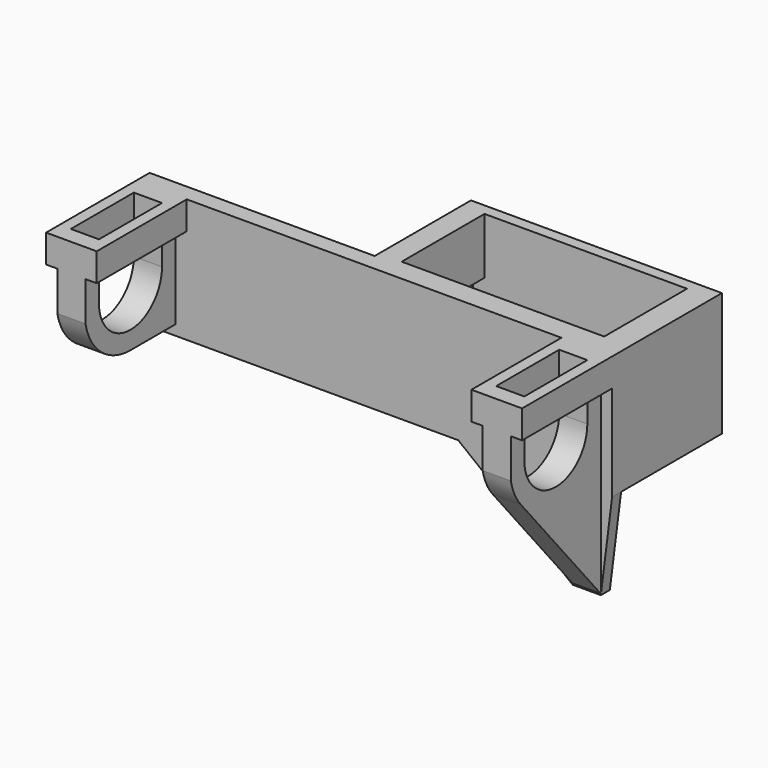
from build123d import *

# Parameters (mm, degrees)
SKETCH014_W   = 40.6
SKETCH014_H   = 20.4
PAD013_DEPTH  = 22
PAD014_DEPTH  = 2
PAD012_DEPTH  = 5
SKETCH016_W   = 9
SKETCH016_H   = 22
SKETCH016_W_2 = 5
SKETCH016_H_2 = 17
PAD015_DEPTH  = 5
SKETCH017_W   = 44.6
SKETCH017_H   = 24.4
SKETCH017_W_2 = 36
SKETCH017_H_2 = 18.4
PAD016_DEPTH  = 10
PAD017_DEPTH  = 5
SKETCH019_W   = 9
SKETCH019_H   = 23
SKETCH019_W_2 = 5
SKETCH019_H_2 = 17
PAD018_DEPTH  = 5


with BuildPart() as part:
    # Sketch014 → Pad013 (new body)
    with BuildSketch(Plane.XY):
        Polygon((-2, 22.4), (42.6, 22.4), (42.6, -2), (-40, -2), (-40, 1), (-2, 1), align=None)
        with Locations((20.3, 10.2)):
            Rectangle(SKETCH014_W, SKETCH014_H, mode=Mode.SUBTRACT)
    extrude(amount=PAD013_DEPTH)

    # Sketch015 → Pad014 (join)
    with BuildSketch(Plane.XZ):
        Polygon((0, 12), (35.6, -16), (40.6, -16), (42.6, 0), (42.6, 12), align=None)
    extrude(amount=PAD014_DEPTH)

    # Sketch013 → Pad012 (join)
    with BuildSketch(Plane(origin=(40.6, 0, 10), x_dir=(0, 1, 0), z_dir=(1, 0, 0))):
        with BuildLine():
            Line((-22, 12), (-22, 0))
            ThreePointArc((-22, 0), (-21.192692, -2.415248), (-19.812151, -4.555173))
            Line((-19.812151, -4.555173), (-2, -25.782868))
            Line((-2, -25.782868), (-2, 2))
            Line((-2, 12), (-2, 2))
            Line((-5, 12), (-2, 12))
            Line((-5, 2), (-5, 12))
            ThreePointArc((-19, 2), (-12, -5), (-5, 2))
            Line((-19, 12), (-19, 2))
            Line((-22, 12), (-19, 12))
        make_face()
    extrude(amount=-PAD012_DEPTH)

    # Sketch016 → Pad015 (join)
    with BuildSketch(Plane(origin=(35.6, 0, 22), x_dir=(1, 0, 0), z_dir=(0, 0, 1))):
        with Locations((2.5, -11)):
            Rectangle(SKETCH016_W, SKETCH016_H)
        with Locations((2.5, -10.5)):
            Rectangle(SKETCH016_W_2, SKETCH016_H_2, mode=Mode.SUBTRACT)
    extrude(amount=-PAD015_DEPTH)

    # Sketch017 → Pad016 (join)
    with BuildSketch(Plane.XY.offset(12)):
        with Locations((20.3, 10.2)):
            Rectangle(SKETCH017_W, SKETCH017_H)
        with Locations((20, 11.2)):
            Rectangle(SKETCH017_W_2, SKETCH017_H_2, mode=Mode.SUBTRACT)
    extrude(amount=PAD016_DEPTH)

    # Sketch018 → Pad017 (join)
    with BuildSketch(Plane(origin=(-40, 0, 10), x_dir=(0, 1, 0), z_dir=(1, 0, 0))):
        with BuildLine():
            Line((-22, 12), (-22, 0))
            ThreePointArc((-22, 0), (-18.465444, -5.886573), (-12, -8.198039))
            Line((-12, -8.198039), (-2, -8.198039))
            Line((-2, -8.198039), (-2, 2))
            Line((-2, 12), (-2, 2))
            Line((-5, 12), (-2, 12))
            Line((-5, 2), (-5, 12))
            ThreePointArc((-19, 2), (-12, -5), (-5, 2))
            Line((-19, 12), (-19, 2))
            Line((-22, 12), (-19, 12))
        make_face()
    extrude(amount=PAD017_DEPTH)

    # Sketch019 → Pad018 (join)
    with BuildSketch(Plane(origin=(-40, 0, 22), x_dir=(1, 0, 0), z_dir=(0, 0, 1))):
        with Locations((2.5, -10.5)):
            Rectangle(SKETCH019_W, SKETCH019_H)
        with Locations((2.5, -10.5)):
            Rectangle(SKETCH019_W_2, SKETCH019_H_2, mode=Mode.SUBTRACT)
    extrude(amount=-PAD018_DEPTH)


solid = part.part
